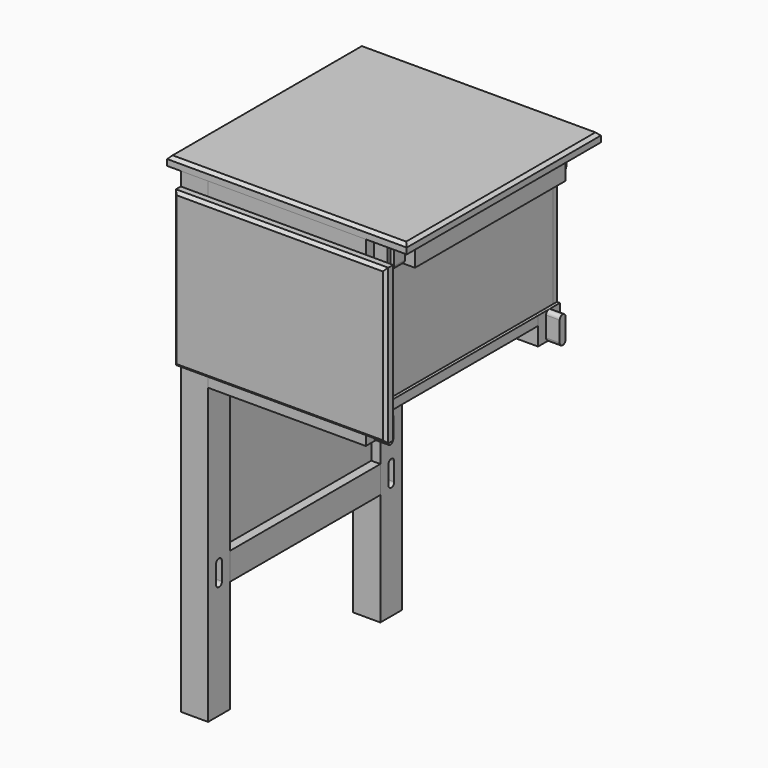
from build123d import *

# Parameters (mm, degrees)
SKETCH_W                 = 45
SKETCH_H                 = 45
PAD_DEPTH                = 785
POCKET005_DEPTH          = 15
POCKET006_DEPTH          = 15
CLONE_PLACEMENT_ANGLE    = 180
SKETCH003_W              = 15
SKETCH003_H              = 310
PAD002_DEPTH             = 510
SKETCH022_R              = 4
POCKET011_DEPTH          = 20
SKETCH023_R              = 4
POCKET012_DEPTH          = 20
CLONE004_PLACEMENT_ANGLE = 180
SKETCH002_W              = 45
SKETCH002_H              = 45
PAD001_DEPTH             = 177.5
SKETCH007_W              = 16.5
SKETCH007_H              = 22.5
POCKET_DEPTH             = 45.001
FILLET_R                 = 5.9999
SKETCH025_R              = 4
POCKET014_DEPTH          = 45.001
CLONE005_PLACEMENT_ANGLE = 180
CLONE003_PLACEMENT_ANGLE = 180
CLONE006_PLACEMENT_ANGLE = 180
SKETCH005_W              = 395
SKETCH005_H              = 400
PAD004_DEPTH             = 15
CHAMFER001_SIZE          = 5
SKETCH024_R              = 4
POCKET013_DEPTH          = 10
SKETCH006_W              = 260
SKETCH006_H              = 310
PAD005_DEPTH             = 15
SKETCH020_R              = 4
POCKET009_DEPTH          = 20
SKETCH021_R              = 4
POCKET010_DEPTH          = 20
SKETCH004_W              = 45
SKETCH004_H              = 45
PAD003_DEPTH             = 152.5
SKETCH008_W              = 16.5
SKETCH008_H              = 22.5
POCKET001_DEPTH          = 45.001
FILLET001_R              = 5.9999
SKETCH026_R              = 4
POCKET015_DEPTH          = 20
CLONE013_PLACEMENT_ANGLE = 180
SKETCH010_W              = 385
SKETCH010_H              = 210
PAD006_DEPTH             = 15
SKETCH011_W              = 385
SKETCH011_H              = 15
POCKET003_DEPTH          = 7.5
SKETCH032_R              = 3
POCKET019_DEPTH          = 20
SKETCH033_R              = 3
POCKET020_DEPTH          = 20
CLONE018_PLACEMENT_ANGLE = 180
SKETCH012_W              = 250
SKETCH012_H              = 210
PAD007_DEPTH             = 15
POCKET004_DEPTH          = 7.5
SKETCH031_R              = 3
HOLE_DEPTH               = 25
BODY027_PLACEMENT_ANGLE  = 180
SKETCH014_W              = 235
SKETCH014_H              = 385
PAD008_DEPTH             = 15
SKETCH034_R              = 3
POCKET021_DEPTH          = 20
SKETCH035_R              = 3
POCKET022_DEPTH          = 20
SKETCH015_W              = 350
SKETCH015_H              = 255
PAD009_DEPTH             = 15
CHAMFER_SIZE             = 5
SKETCH037_R              = 3
POCKET023_DEPTH          = 5
SKETCH017_W              = 45
SKETCH017_H              = 45
PAD010_DEPTH             = 785
POCKET007_DEPTH          = 15
POCKET008_DEPTH          = 15
CLONE020_PLACEMENT_ANGLE = 180
SKETCH027_W              = 45
SKETCH027_H              = 45
PAD011_DEPTH             = 152.5
SKETCH028_W              = 16.5
SKETCH028_H              = 22.5
POCKET016_DEPTH          = 45.001
FILLET002_R              = 5.9999
SKETCH030_R              = 4
POCKET018_DEPTH          = 20
BODY033_PLACEMENT_ANGLE  = 180


with BuildPart() as obj1:
    # Sketch → Pad (new body)
    with BuildSketch(Plane(origin=(152.5, 177.5, 0), x_dir=(1, 0, 0), z_dir=(0, 0, 1))):
        Rectangle(SKETCH_W, SKETCH_H)
    extrude(amount=PAD_DEPTH)

    # Sketch009 (on Face3 of Pad) → Pocket005 (cut)
    with BuildSketch(Plane.XZ.offset(-155)):
        with BuildLine():
            ThreePointArc((158.5, 777.5), (152.5, 783.5), (146.5, 777.5))
            Line((146.5, 777.5), (146.5, 747.5))
            ThreePointArc((146.5, 747.5), (152.5, 741.5), (158.5, 747.5))
            Line((158.5, 747.5), (158.5, 777.5))
        make_face()
        with BuildLine():
            ThreePointArc((158.5, 222.5), (152.5, 228.5), (146.5, 222.5))
            Line((146.5, 222.5), (146.5, 192.5))
            ThreePointArc((146.5, 192.5), (152.5, 186.5), (158.5, 192.5))
            Line((158.5, 192.5), (158.5, 222.5))
        make_face()
    extrude(amount=-POCKET005_DEPTH, mode=Mode.SUBTRACT)

    # Sketch016 (on Face2 of Pocket005) → Pocket006 (cut)
    with BuildSketch(Plane(origin=(130, 0, 0), x_dir=(0, -1, 0), z_dir=(-1, 0, 0))):
        with BuildLine():
            ThreePointArc((-171.5, 777.5), (-177.5, 783.5), (-183.5, 777.5))
            Line((-183.5, 777.5), (-183.5, 747.5))
            ThreePointArc((-183.5, 747.5), (-177.5, 741.5), (-171.5, 747.5))
            Line((-171.5, 747.5), (-171.5, 777.5))
        make_face()
        with BuildLine():
            ThreePointArc((-171.5, 222.5), (-177.5, 228.5), (-183.5, 222.5))
            Line((-183.5, 222.5), (-183.5, 192.5))
            ThreePointArc((-183.5, 192.5), (-177.5, 186.5), (-171.5, 192.5))
            Line((-171.5, 192.5), (-171.5, 222.5))
        make_face()
        with BuildLine():
            ThreePointArc((-171.5, 522.5), (-177.5, 528.5), (-183.5, 522.5))
            Line((-183.5, 522.5), (-183.5, 492.5))
            ThreePointArc((-183.5, 492.5), (-177.5, 486.5), (-171.5, 492.5))
            Line((-171.5, 492.5), (-171.5, 522.5))
        make_face()
    extrude(amount=-POCKET006_DEPTH, mode=Mode.SUBTRACT)


with BuildPart() as obj1_1:
    # Clone placement: moved
    add(obj1.part.rotate(Axis((0, 0, 0), (0, 0, 1)), CLONE_PLACEMENT_ANGLE))


with BuildPart() as side_panel02:
    # Sketch003 → Pad002 (new body)
    with BuildSketch(Plane(origin=(152.5, 0, 230), x_dir=(1, 0, 0), z_dir=(0, 0, 1))):
        Rectangle(SKETCH003_W, SKETCH003_H)
    extrude(amount=PAD002_DEPTH)

    # Sketch022 (on Face6 of Pad002) → Pocket011 (cut)
    with BuildSketch(Plane.XY.offset(740)):
        with Locations((152.5, 100)):
            Circle(SKETCH022_R)
        with Locations((152.5, 0)):
            Circle(SKETCH022_R)
        with Locations((152.5, -100)):
            Circle(SKETCH022_R)
    extrude(amount=-POCKET011_DEPTH, mode=Mode.SUBTRACT)

    # Sketch023 (on Face4 of Pocket011) → Pocket012 (cut)
    with BuildSketch(Plane(origin=(0, 0, 230), x_dir=(1, 0, 0), z_dir=(0, 0, -1))):
        with Locations((152.5, 100)):
            Circle(SKETCH023_R)
        with Locations((152.5, 0)):
            Circle(SKETCH023_R)
        with Locations((152.5, -100)):
            Circle(SKETCH023_R)
    extrude(amount=-POCKET012_DEPTH, mode=Mode.SUBTRACT)


with BuildPart() as side_panel02_1:
    # Clone004 placement: moved
    add(side_panel02.part.rotate(Axis((0, 0, 0), (0, 0, 1)), CLONE004_PLACEMENT_ANGLE))


with BuildPart() as short01:
    # Sketch002 → Pad001 (new body, symmetric)
    with BuildSketch(Plane(origin=(152.5, 0, 207.5), x_dir=(1, 0, 0), z_dir=(0, -1, 0))):
        Rectangle(SKETCH002_W, SKETCH002_H)
    extrude(amount=PAD001_DEPTH, both=True)

    # Sketch007 (on Face1 of Pad001) → Pocket (cut, through all)
    with BuildSketch(Plane(origin=(0, 0, 230), x_dir=(-1, 0, 0), z_dir=(0, 0, 1))):
        with Locations((-138.25, 166.25)):
            Rectangle(SKETCH007_W, SKETCH007_H)
        with Locations((-138.25, -166.25)):
            Rectangle(SKETCH007_W, SKETCH007_H)
        with Locations((-166.75, 166.25)):
            Rectangle(SKETCH007_W, SKETCH007_H)
        with Locations((-166.75, -166.25)):
            Rectangle(SKETCH007_W, SKETCH007_H)
    extrude(amount=-POCKET_DEPTH, mode=Mode.SUBTRACT)

    # Fillet
    fillet_edges = [short01.edges().sort_by_distance(p)[0] for p in [
        (158.5, -166.25, 230),
        (158.5, -166.25, 185),
        (146.5, -166.25, 185),
        (146.5, -166.25, 230),
        (146.5, 166.25, 230),
        (146.5, 166.25, 185),
        (158.5, 166.25, 230),
        (158.5, 166.25, 185),
    ]]
    fillet(fillet_edges, radius=FILLET_R)

    # Sketch025 (on Face1 of Fillet) → Pocket014 (cut, through all)
    with BuildSketch(Plane(origin=(0, 0, 230), x_dir=(-1, 0, 0), z_dir=(0, 0, 1))):
        with Locations((-152.5, 100)):
            Circle(SKETCH025_R)
        with Locations((-152.5, -100)):
            Circle(SKETCH025_R)
        with Locations((-152.5, 0)):
            Circle(SKETCH025_R)
    extrude(amount=-POCKET014_DEPTH, mode=Mode.SUBTRACT)


with BuildPart() as short03:
    # Body008 base: copy of short01
    add(short01.part)


with BuildPart() as short03_1:
    # Clone005 placement: moved
    add(short03.part.rotate(Axis((0, 0, 0), (0, 0, 1)), CLONE005_PLACEMENT_ANGLE))


with BuildPart() as short04:
    # Body006 base: copy of short01
    add(short01.part)


with BuildPart() as short04_1:
    # Clone003 placement: moved
    add(short04.part.moved(Location((0, 0, 970))).rotate(Axis((0, 0, 970), (0, 1, 0)), CLONE003_PLACEMENT_ANGLE))


with BuildPart() as short04_2:
    # Clone006 placement: moved
    add(short04_1.part.rotate(Axis((0, 0, 0), (0, 0, 1)), CLONE006_PLACEMENT_ANGLE))


with BuildPart() as top:
    # Sketch005 → Pad004 (new body)
    with BuildSketch(Plane.XY.offset(785)):
        Rectangle(SKETCH005_W, SKETCH005_H)
    extrude(amount=PAD004_DEPTH)

    # Chamfer001
    chamfer001_edges = [top.edges().sort_by_distance(p)[0] for p in [
        (-197.5, 0, 800),
        (0, -200, 800),
        (197.5, 0, 800),
        (0, 200, 800),
    ]]
    chamfer(chamfer001_edges, length=CHAMFER001_SIZE)

    # Sketch024 (on Face4 of Chamfer001) → Pocket013 (cut)
    with BuildSketch(Plane(origin=(0, 0, 785), x_dir=(1, 0, 0), z_dir=(0, 0, -1))):
        with Locations((0, 177.5)):
            Circle(SKETCH024_R)
        with Locations((0, -177.5)):
            Circle(SKETCH024_R)
        with Locations((-152.5, 0)):
            Circle(SKETCH024_R)
        with Locations((152.5, 0)):
            Circle(SKETCH024_R)
        with Locations((100, 177.5)):
            Circle(SKETCH024_R)
        with Locations((-100, 177.5)):
            Circle(SKETCH024_R)
        with Locations((-100, -177.5)):
            Circle(SKETCH024_R)
        with Locations((100, -177.5)):
            Circle(SKETCH024_R)
        with Locations((-152.5, 100)):
            Circle(SKETCH024_R)
        with Locations((-152.5, -100)):
            Circle(SKETCH024_R)
        with Locations((152.5, 100)):
            Circle(SKETCH024_R)
        with Locations((152.5, -100)):
            Circle(SKETCH024_R)
    extrude(amount=-POCKET013_DEPTH, mode=Mode.SUBTRACT)


with BuildPart() as inner_top02:
    # Sketch006 → Pad005 (new body)
    with BuildSketch(Plane.XY.offset(215)):
        Rectangle(SKETCH006_W, SKETCH006_H)
    extrude(amount=PAD005_DEPTH)

    # Sketch020 (on Face3 of Pad005) → Pocket009 (cut)
    with BuildSketch(Plane.XZ.offset(155)):
        with Locations((-65, 222.5)):
            Circle(SKETCH020_R)
        with Locations((65, 222.5)):
            Circle(SKETCH020_R)
        with Locations((0, 222.5)):
            Circle(SKETCH020_R)
    extrude(amount=-POCKET009_DEPTH, mode=Mode.SUBTRACT)

    # Sketch021 (on Face1 of Pocket009) → Pocket010 (cut)
    with BuildSketch(Plane(origin=(0, 155, 0), x_dir=(-1, 0, 0), z_dir=(0, 1, 0))):
        with Locations((0, 222.5)):
            Circle(SKETCH021_R)
        with Locations((-65, 222.5)):
            Circle(SKETCH021_R)
        with Locations((65, 222.5)):
            Circle(SKETCH021_R)
    extrude(amount=-POCKET010_DEPTH, mode=Mode.SUBTRACT)


with BuildPart() as inner_top02_1:
    # Clone012 placement: moved
    add(inner_top02.part.moved(Location((0, 0, 300))))


with BuildPart() as body:
    # Sketch004 → Pad003 (new body, symmetric)
    with BuildSketch(Plane(origin=(0, 177.5, 207.5), x_dir=(0, 1, 0), z_dir=(1, 0, 0))):
        Rectangle(SKETCH004_W, SKETCH004_H)
    extrude(amount=PAD003_DEPTH, both=True)

    # Sketch008 (on Face1 of Pad003) → Pocket001 (cut, through all)
    with BuildSketch(Plane(origin=(0, 0, 230), x_dir=(0, -1, 0), z_dir=(0, 0, 1))):
        with Locations((-163.25, 141.25)):
            Rectangle(SKETCH008_W, SKETCH008_H)
        with Locations((-163.25, -141.25)):
            Rectangle(SKETCH008_W, SKETCH008_H)
        with Locations((-191.75, 141.25)):
            Rectangle(SKETCH008_W, SKETCH008_H)
        with Locations((-191.75, -141.25)):
            Rectangle(SKETCH008_W, SKETCH008_H)
    extrude(amount=-POCKET001_DEPTH, mode=Mode.SUBTRACT)

    # Fillet001
    fillet001_edges = [body.edges().sort_by_distance(p)[0] for p in [
        (141.25, 171.5, 230),
        (141.25, 183.5, 230),
        (-141.25, 171.5, 230),
        (-141.25, 183.5, 230),
        (141.25, 183.5, 185),
        (141.25, 171.5, 185),
        (-141.25, 183.5, 185),
        (-141.25, 171.5, 185),
    ]]
    fillet(fillet001_edges, radius=FILLET001_R)

    # Sketch026 (on Face7 of Fillet001) → Pocket015 (cut)
    with BuildSketch(Plane(origin=(0, 155, 0), x_dir=(0, 0, -1), z_dir=(0, -1, 0))):
        with Locations((-222.5, 0)):
            Circle(SKETCH026_R)
        with Locations((-222.5, -65)):
            Circle(SKETCH026_R)
        with Locations((-222.5, 65)):
            Circle(SKETCH026_R)
    extrude(amount=-POCKET015_DEPTH, mode=Mode.SUBTRACT)


with BuildPart() as body020:
    # Body020 base: copy of Body
    add(body.part)


with BuildPart() as body020_1:
    # Clone014 placement: moved
    add(body020.part.moved(Location((0, 0, 300))))


with BuildPart() as body021:
    # Body019 base: copy of Body
    add(body.part)


with BuildPart() as body021_1:
    # Clone013 placement: moved
    add(body021.part.rotate(Axis((0, 0, 0), (0, 0, 1)), CLONE013_PLACEMENT_ANGLE))


with BuildPart() as body021_2:
    # Clone015 placement: moved
    add(body021_1.part.moved(Location((0, 0, 300))))


with BuildPart() as body025:
    # Sketch010 → Pad006 (new body)
    with BuildSketch(Plane(origin=(-125, 0, 530), x_dir=(0, 1, 0), z_dir=(1, 0, 0))):
        with Locations((0, 105)):
            Rectangle(SKETCH010_W, SKETCH010_H)
    extrude(amount=PAD006_DEPTH)

    # Sketch011 (on Face6 of Pad006) → Pocket003 (cut)
    with BuildSketch(Plane.YZ.offset(-110)):
        with Locations((0, 537.5)):
            Rectangle(SKETCH011_W, SKETCH011_H)
    extrude(amount=-POCKET003_DEPTH, mode=Mode.SUBTRACT)

    # Sketch032 (on Face2 of Pocket003) → Pocket019 (cut)
    with BuildSketch(Plane(origin=(0, -192.5, 0), x_dir=(0, 0, -1), z_dir=(0, -1, 0))):
        with Locations((-687.5, -117.5)):
            Circle(SKETCH032_R)
        with Locations((-635, -117.5)):
            Circle(SKETCH032_R)
        with Locations((-582.5, -117.5)):
            Circle(SKETCH032_R)
    extrude(amount=-POCKET019_DEPTH, mode=Mode.SUBTRACT)

    # Sketch033 (on Face3 of Pocket019) → Pocket020 (cut)
    with BuildSketch(Plane.ZX.offset(192.5)):
        with Locations((582.5, -117.5)):
            Circle(SKETCH033_R)
        with Locations((635, -117.5)):
            Circle(SKETCH033_R)
        with Locations((687.5, -117.5)):
            Circle(SKETCH033_R)
    extrude(amount=-POCKET020_DEPTH, mode=Mode.SUBTRACT)


with BuildPart() as body025_1:
    # Clone018 placement: moved
    add(body025.part.rotate(Axis((0, 0, 0), (0, 0, 1)), CLONE018_PLACEMENT_ANGLE))


with BuildPart() as body027:
    # Sketch012 → Pad007 (new body)
    with BuildSketch(Plane(origin=(0, -185, 530), x_dir=(1, 0, 0), z_dir=(0, -1, 0))):
        with Locations((0, 105)):
            Rectangle(SKETCH012_W, SKETCH012_H)
    extrude(amount=PAD007_DEPTH)

    # Sketch013 (on Face5 of Pad007) → Pocket004 (cut)
    with BuildSketch(Plane(origin=(0, -185, 0), x_dir=(1, 0, 0), z_dir=(0, 1, 0))):
        Polygon((-125, -530), (-125, -740), (-110, -740), (-110, -545), (110, -545), (110, -740), (125, -740), (125, -530), align=None)
    extrude(amount=-POCKET004_DEPTH, mode=Mode.SUBTRACT)

    # Sketch031 (on Face7 of Pocket004) → Hole (cut)
    with BuildSketch(Plane.XZ.offset(200)):
        with Locations((-117.5, 687.5)):
            Circle(SKETCH031_R)
        with Locations((-117.5, 582.5)):
            Circle(SKETCH031_R)
        with Locations((117.5, 687.5)):
            Circle(SKETCH031_R)
        with Locations((117.5, 582.5)):
            Circle(SKETCH031_R)
        with Locations((-117.5, 635)):
            Circle(SKETCH031_R)
        with Locations((117.5, 635)):
            Circle(SKETCH031_R)
        with Locations((-62.5, 537.5)):
            Circle(SKETCH031_R)
        with Locations((0, 537.5)):
            Circle(SKETCH031_R)
        with Locations((62.5, 537.5)):
            Circle(SKETCH031_R)
    extrude(amount=-HOLE_DEPTH, mode=Mode.SUBTRACT)


with BuildPart() as body027_1:
    # Body027 placement: moved
    add(body027.part.rotate(Axis((0, 0, 0), (0, 0, 1)), BODY027_PLACEMENT_ANGLE))


with BuildPart() as body028:
    # Sketch014 → Pad008 (new body)
    with BuildSketch(Plane.XY.offset(530)):
        Rectangle(SKETCH014_W, SKETCH014_H)
    extrude(amount=PAD008_DEPTH)

    # Sketch034 (on Face3 of Pad008) → Pocket021 (cut)
    with BuildSketch(Plane.XZ.offset(192.5)):
        with Locations((0, 537.5)):
            Circle(SKETCH034_R)
        with Locations((62.5, 537.5)):
            Circle(SKETCH034_R)
        with Locations((-62.5, 537.5)):
            Circle(SKETCH034_R)
    extrude(amount=-POCKET021_DEPTH, mode=Mode.SUBTRACT)

    # Sketch035 (on Face1 of Pocket021) → Pocket022 (cut)
    with BuildSketch(Plane(origin=(0, 192.5, 0), x_dir=(-1, 0, 0), z_dir=(0, 1, 0))):
        with Locations((-62.5, 537.5)):
            Circle(SKETCH035_R)
        with Locations((62.5, 537.5)):
            Circle(SKETCH035_R)
        with Locations((0, 537.5)):
            Circle(SKETCH035_R)
    extrude(amount=-POCKET022_DEPTH, mode=Mode.SUBTRACT)


with BuildPart() as body029:
    # Sketch015 → Pad009 (new body)
    with BuildSketch(Plane(origin=(0, -200, 507.5), x_dir=(1, 0, 0), z_dir=(0, -1, 0))):
        with Locations((0, 127.5)):
            Rectangle(SKETCH015_W, SKETCH015_H)
    extrude(amount=PAD009_DEPTH)

    # Chamfer
    chamfer_edges = [body029.edges().sort_by_distance(p)[0] for p in [
        (0, -215, 762.5),
        (175, -215, 635),
        (-175, -215, 635),
        (0, -215, 507.5),
    ]]
    chamfer(chamfer_edges, length=CHAMFER_SIZE)

    # Sketch037 (on Face4 of Chamfer) → Pocket023 (cut)
    with BuildSketch(Plane(origin=(0, -200, 0), x_dir=(1, 0, 0), z_dir=(0, 1, 0))):
        with Locations((-117.5, -687.5)):
            Circle(SKETCH037_R)
        with Locations((-117.5, -635)):
            Circle(SKETCH037_R)
        with Locations((-117.5, -582.5)):
            Circle(SKETCH037_R)
        with Locations((-62.5, -537.5)):
            Circle(SKETCH037_R)
        with Locations((0, -537.5)):
            Circle(SKETCH037_R)
        with Locations((62.5, -537.5)):
            Circle(SKETCH037_R)
        with Locations((117.5, -582.5)):
            Circle(SKETCH037_R)
        with Locations((117.5, -635)):
            Circle(SKETCH037_R)
        with Locations((117.5, -687.5)):
            Circle(SKETCH037_R)
    extrude(amount=-POCKET023_DEPTH, mode=Mode.SUBTRACT)


with BuildPart() as obj2:
    # Sketch017 → Pad010 (new body)
    with BuildSketch(Plane(origin=(152.5, -177.5, 0), x_dir=(1, 0, 0), z_dir=(0, 0, 1))):
        Rectangle(SKETCH017_W, SKETCH017_H)
    extrude(amount=PAD010_DEPTH)

    # Sketch018 (on Face1 of Pad010) → Pocket007 (cut)
    with BuildSketch(Plane(origin=(0, -155, 0), x_dir=(-1, 0, 0), z_dir=(0, 1, 0))):
        with BuildLine():
            ThreePointArc((-146.5, 222.5), (-152.5, 228.5), (-158.5, 222.5))
            Line((-158.5, 222.5), (-158.5, 192.5))
            ThreePointArc((-158.5, 192.5), (-152.5, 186.5), (-146.5, 192.5))
            Line((-146.5, 192.5), (-146.5, 222.5))
        make_face()
        with BuildLine():
            ThreePointArc((-146.5, 777.5), (-152.5, 783.5), (-158.5, 777.5))
            Line((-158.5, 777.5), (-158.5, 747.5))
            ThreePointArc((-158.5, 747.5), (-152.5, 741.5), (-146.5, 747.5))
            Line((-146.5, 747.5), (-146.5, 777.5))
        make_face()
    extrude(amount=-POCKET007_DEPTH, mode=Mode.SUBTRACT)

    # Sketch019 (on Face2 of Pocket007) → Pocket008 (cut)
    with BuildSketch(Plane(origin=(130, 0, 0), x_dir=(0, -1, 0), z_dir=(-1, 0, 0))):
        with BuildLine():
            ThreePointArc((183.5, 777.5), (177.5, 783.5), (171.5, 777.5))
            Line((171.5, 777.5), (171.5, 747.5))
            ThreePointArc((171.5, 747.5), (177.5, 741.5), (183.5, 747.5))
            Line((183.5, 747.5), (183.5, 777.5))
        make_face()
        with BuildLine():
            ThreePointArc((183.5, 522.5), (177.5, 528.5), (171.5, 522.5))
            Line((171.5, 522.5), (171.5, 492.5))
            ThreePointArc((171.5, 492.5), (177.5, 486.5), (183.5, 492.5))
            Line((183.5, 492.5), (183.5, 522.5))
        make_face()
        with BuildLine():
            ThreePointArc((183.5, 222.5), (177.5, 228.5), (171.5, 222.5))
            Line((171.5, 222.5), (171.5, 192.5))
            ThreePointArc((171.5, 192.5), (177.5, 186.5), (183.5, 192.5))
            Line((183.5, 192.5), (183.5, 222.5))
        make_face()
    extrude(amount=-POCKET008_DEPTH, mode=Mode.SUBTRACT)


with BuildPart() as obj2_1:
    # Clone020 placement: moved
    add(obj2.part.rotate(Axis((0, 0, 0), (0, 0, 1)), CLONE020_PLACEMENT_ANGLE))


with BuildPart() as body033:
    # Sketch027 → Pad011 (new body, symmetric)
    with BuildSketch(Plane(origin=(0, 177.5, 207.5), x_dir=(0, 1, 0), z_dir=(1, 0, 0))):
        Rectangle(SKETCH027_W, SKETCH027_H)
    extrude(amount=PAD011_DEPTH, both=True)

    # Sketch028 (on Face1 of Pad011) → Pocket016 (cut, through all)
    with BuildSketch(Plane(origin=(0, 0, 230), x_dir=(0, -1, 0), z_dir=(0, 0, 1))):
        with Locations((-163.25, 141.25)):
            Rectangle(SKETCH028_W, SKETCH028_H)
        with Locations((-163.25, -141.25)):
            Rectangle(SKETCH028_W, SKETCH028_H)
        with Locations((-191.75, 141.25)):
            Rectangle(SKETCH028_W, SKETCH028_H)
        with Locations((-191.75, -141.25)):
            Rectangle(SKETCH028_W, SKETCH028_H)
    extrude(amount=-POCKET016_DEPTH, mode=Mode.SUBTRACT)

    # Fillet002
    fillet002_edges = [body033.edges().sort_by_distance(p)[0] for p in [
        (141.25, 171.5, 230),
        (141.25, 183.5, 230),
        (-141.25, 171.5, 230),
        (-141.25, 183.5, 230),
        (141.25, 183.5, 185),
        (141.25, 171.5, 185),
        (-141.25, 183.5, 185),
        (-141.25, 171.5, 185),
    ]]
    fillet(fillet002_edges, radius=FILLET002_R)

    # Sketch030 → Pocket018 (cut)
    with BuildSketch(Plane(origin=(0, 0, 230), x_dir=(0, -1, 0), z_dir=(0, 0, 1))):
        with Locations((-177.5, 0)):
            Circle(SKETCH030_R)
        with Locations((-177.5, 100)):
            Circle(SKETCH030_R)
        with Locations((-177.5, -100)):
            Circle(SKETCH030_R)
    extrude(amount=-POCKET018_DEPTH, mode=Mode.SUBTRACT)


with BuildPart() as body033_1:
    # Body032 placement: moved
    add(body033.part.moved(Location((0, 0, 555))))


with BuildPart() as body033_2:
    # Body033 placement: moved
    add(body033_1.part.rotate(Axis((0, 0, 0), (0, 0, 1)), BODY033_PLACEMENT_ANGLE))


solid = Compound([obj1_1.part, side_panel02_1.part, short03_1.part, short04_2.part, top.part, inner_top02_1.part, body020_1.part, body021_2.part, body025_1.part, body027_1.part, body028.part, body029.part, obj2_1.part, body033_2.part])
